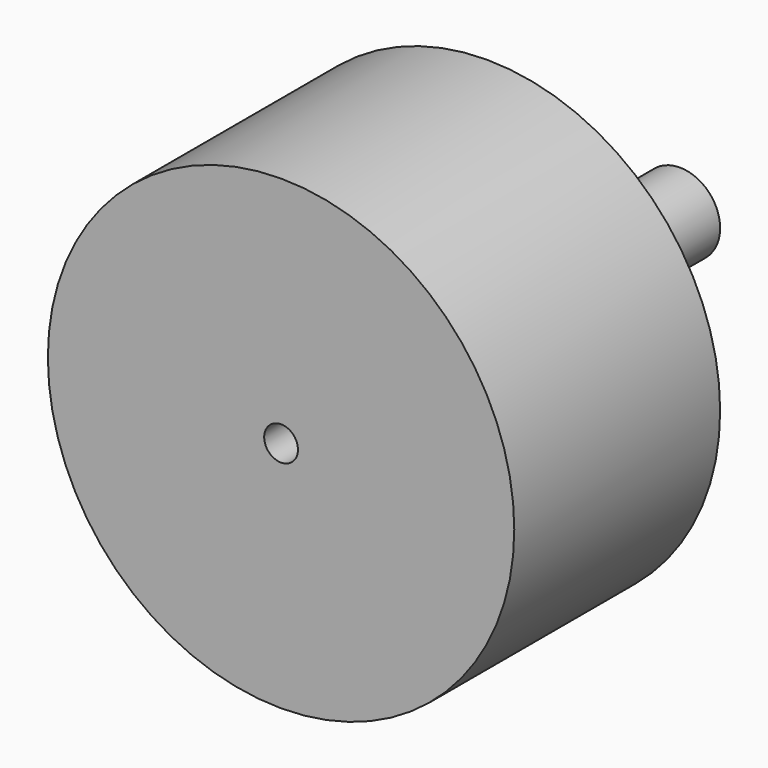
from build123d import *

# Parameters (mm, degrees)
SKETCH_R     = 14.5
PAD_DEPTH    = 16
SKETCH001_R  = 2.5
PAD001_DEPTH = 15
SKETCH002_R  = 1.05
POCKET_DEPTH = 31.001


with BuildPart() as part:
    # Sketch → Pad (new body)
    with BuildSketch(Plane.XZ):
        Circle(SKETCH_R)
    extrude(amount=PAD_DEPTH)

    # Sketch001 (on Face2 of Pad) → Pad001 (join)
    with BuildSketch(Plane(origin=(0, 0, 0), x_dir=(1, 0, 0), z_dir=(0, 1, 0))):
        Circle(SKETCH001_R)
    extrude(amount=PAD001_DEPTH)

    # Sketch002 (on Face5 of Pad001) → Pocket (cut, through all)
    with BuildSketch(Plane(origin=(0, 15, 0), x_dir=(1, 0, 0), z_dir=(0, 1, 0))):
        Circle(SKETCH002_R)
    extrude(amount=-POCKET_DEPTH, mode=Mode.SUBTRACT)


solid = part.part
